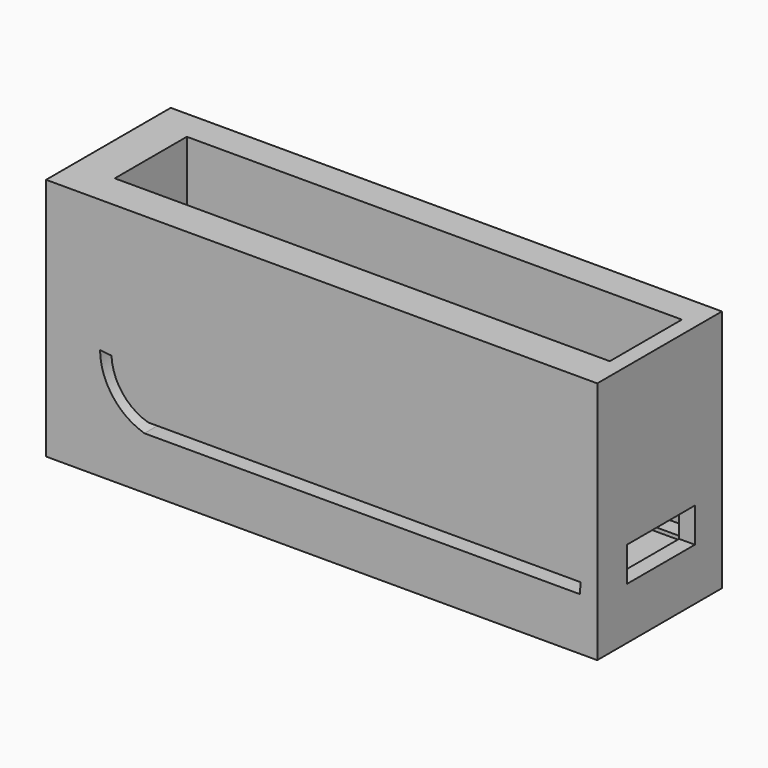
from build123d import *

# Parameters (mm, degrees)
F0_W     = 57.45079
F0_H     = 16.242632
F1_DEPTH = 25.4
F2_W     = 51.598368
F2_H     = 9.389651
F3_DEPTH = 20.32
F4_W     = 8.826647
F4_H     = 3.600052
F5_DEPTH = 35.306
F7_DEPTH = 25.4


with BuildPart() as f1:
    # F0 (on Top) → F1 (new body)
    with BuildSketch(Plane.XY):
        with Locations((-0.150396, -0.30079)):
            Rectangle(F0_W, F0_H)
    extrude(amount=F1_DEPTH)

    # F2 (on face) → F3 (cut)
    with BuildSketch(Plane.XY.offset(25.4)):
        with Locations((1.131601, -0.038353)):
            Rectangle(F2_W, F2_H)
    extrude(amount=-F3_DEPTH, mode=Mode.SUBTRACT)

    # F4 (on face) → F5 (cut)
    with BuildSketch(Plane.YZ.offset(28.574999)):
        with Locations((-0.108496, 7.22357)):
            Rectangle(F4_W, F4_H)
    extrude(amount=-F5_DEPTH, mode=Mode.SUBTRACT)

    # F6 (on face) → F7 (cut)
    with BuildSketch(Plane.XZ.offset(8.422106)):
        with BuildLine():
            Line((-18.629054, 5.46905), (26.788274, 5.46905))
            Line((26.788274, 5.46905), (26.815441, 6.593401))
            Line((26.815441, 6.593401), (-18.222148, 6.593401))
            ThreePointArc((-18.222148, 6.593401), (-20.923448, 8.422133), (-22.056237, 11.48123))
            Line((-22.056237, 11.48123), (-23.254463, 11.616431))
            ThreePointArc((-23.254463, 11.616431), (-21.942804, 7.789534), (-18.629054, 5.46905))
        make_face()
    extrude(amount=-F7_DEPTH, mode=Mode.SUBTRACT)


solid = f1.part
